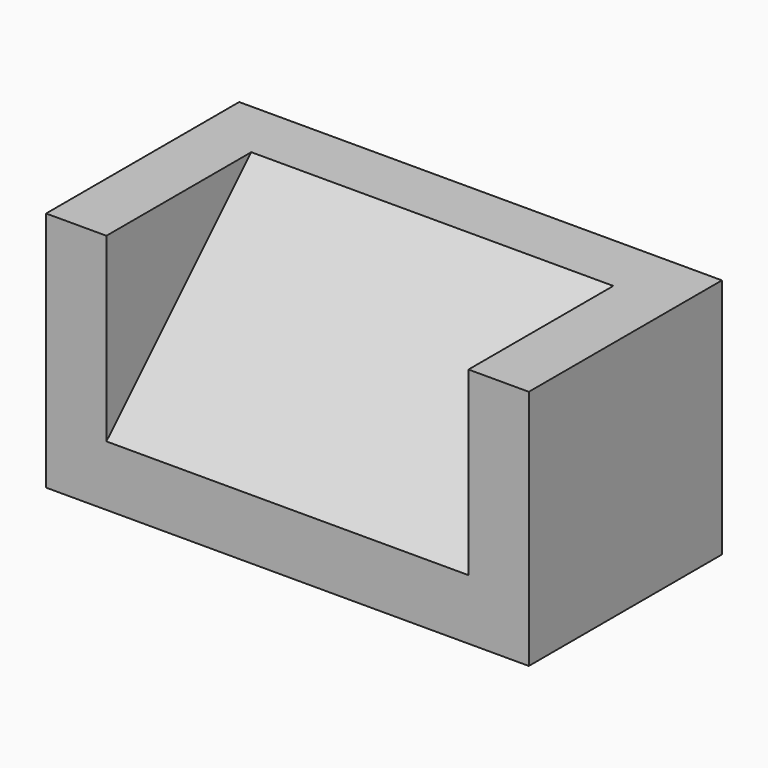
from build123d import *

# Parameters (mm, degrees)
F0_W     = 203.2
F0_H     = 101.6
F1_DEPTH = 101.6
F2_W     = 152.4
F2_H     = 76.2
F3_DEPTH = 76.2
F5_DEPTH = 152.4
F6_ANGLE = 90


with BuildPart() as f1:
    # F0 (on Front) → F1 (new body)
    with BuildSketch(Plane.XZ):
        with Locations((-101.6, 50.8)):
            Rectangle(F0_W, F0_H)
    extrude(amount=F1_DEPTH)

    # F2 (on face) → F3 (cut)
    with BuildSketch(Plane.XZ.offset(101.6)):
        with Locations((-101.6, 38.1)):
            Rectangle(F2_W, F2_H)
    extrude(amount=-F3_DEPTH, mode=Mode.SUBTRACT)

    # F4 (on face) → F5 (join)
    with BuildSketch(Plane.YZ.offset(-177.8)):
        Polygon((-25.4, 76.2), (-101.6, 76.2), (-25.4, 0), align=None)
    extrude(amount=F5_DEPTH)


with BuildPart() as f1_1:
    # F6: moved
    add(f1.part.rotate(Axis((-101.6, 0, 101.6), (-1, 0, 0)), F6_ANGLE))


solid = f1_1.part
